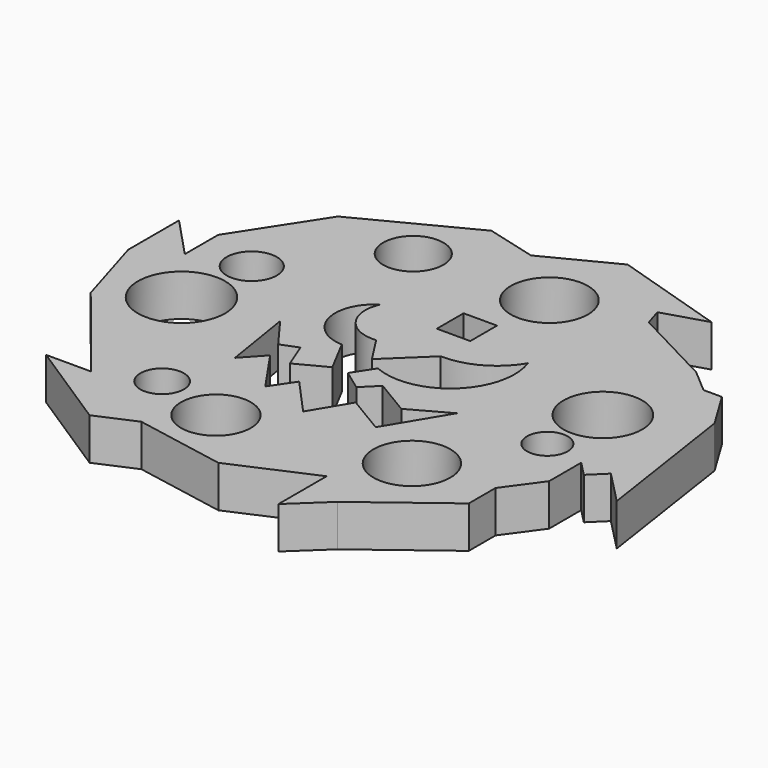
from build123d import *

# Parameters (mm, degrees)
F0_R     = 1.655877
F0_R_2   = 2.651838
F0_R_3   = 3.310353
F0_R_4   = 2.921
F0_R_5   = 1.545023
F0_R_6   = 1.905
F0_R_7   = 2.289524
F0_R_8   = 2.989225
F0_R_9   = 2.932024
F1_DEPTH = 3.175
F2_W     = 2.54
F2_H     = 2.54
F3_DEPTH = 3.175


with BuildPart() as f1:
    # F0 (on Top) → F1 (new body)
    with BuildSketch(Plane.XY):
        Polygon((32.829497, -3.6195), (24.320502, -0.9525), (19.1135, -3.6195), (15.303499, -2.6035), (7.044703, -6.867298), (2.976148, -13.144501), (2.976148, -16.312003), (0, -13.144501), (0, -17.970501), (1.7145, -23.669264), (8.064501, -31.559501), (4.6355, -31.559501), (11.493499, -36.004499), (14.414499, -34.734499), (21.272501, -36.004499), (27.368499, -33.3375), (27.368499, -37.9095), (29.936647, -35.496499), (36.131501, -30.7975), (36.131501, -28.2575), (38.068253, -25.5905), (38.068253, -22.542501), (39.166847, -23.669264), (40.322501, -22.542501), (42.799, -25.082501), (41.084498, -13.652501), (39.306503, -10.731501), (37.9095, -10.731501), (36.131501, -9.2075), (29.936647, -5.965224), (29.5275, -4.6355), align=None)
        with Locations((12.128499, -29.908501)):
            Circle(F0_R, mode=Mode.SUBTRACT)
        with Locations((17.335502, -31.305499)):
            Circle(F0_R_2, mode=Mode.SUBTRACT)
        with Locations((6.286501, -20.7645)):
            Circle(F0_R_3, mode=Mode.SUBTRACT)
        with BuildLine():
            Line((13.620393, -24.859201), (12.763499, -19.4945))
            Line((12.763499, -19.4945), (14.541501, -21.907501))
            Line((14.541501, -21.907501), (15.829229, -21.3995))
            Line((15.829229, -21.3995), (16.612777, -23.38571))
            Line((16.612777, -23.38571), (18.882671, -22.190495))
            Line((18.882671, -22.190495), (17.496092, -19.557172))
            ThreePointArc((17.496092, -19.557172), (14.764748, -17.393266), (16.065503, -14.160501))
            ThreePointArc((16.065503, -14.160501), (16.325903, -16.779071), (18.732499, -17.8435))
            Line((18.732499, -17.8435), (20.067376, -19.913881))
            Line((20.067376, -19.913881), (23.023179, -17.081501))
            ThreePointArc((23.023179, -17.081501), (25.66988, -16.439906), (27.6225, -14.5415))
            ThreePointArc((27.6225, -14.5415), (26.339514, -19.717253), (21.083658, -20.6175))
            Line((21.083658, -20.6175), (20.067376, -22.190495))
            Line((20.067376, -22.190495), (21.594148, -23.3045))
            Line((21.594148, -23.3045), (22.709592, -22.190495))
            Line((22.709592, -22.190495), (25.418346, -23.809462))
            Line((25.418346, -23.809462), (28.348263, -22.190495))
            Line((28.348263, -22.190495), (25.701909, -26.60206))
            Line((25.701909, -26.60206), (22.7965, -24.859201))
            Line((22.7965, -24.859201), (21.083658, -27.71457))
            Line((21.083658, -27.71457), (18.498735, -24.859201))
            Line((18.498735, -24.859201), (17.318298, -26.60206))
            Line((17.318298, -26.60206), (15.049499, -23.3045))
            Line((15.049499, -23.3045), (13.620393, -24.859201))
        make_face(mode=Mode.SUBTRACT)
        with Locations((30.289499, -28.8925)):
            Circle(F0_R_4, mode=Mode.SUBTRACT)
        with Locations((34.9885, -21.907501)):
            Circle(F0_R_5, mode=Mode.SUBTRACT)
        with Locations((7.048499, -15.0495)):
            Circle(F0_R_6, mode=Mode.SUBTRACT)
        with Locations((13.5255, -7.8105)):
            Circle(F0_R_7, mode=Mode.SUBTRACT)
        with Locations((35.242502, -16.9545)):
            Circle(F0_R_8, mode=Mode.SUBTRACT)
        with Locations((23.558499, -7.4295)):
            Circle(F0_R_9, mode=Mode.SUBTRACT)
    extrude(amount=F1_DEPTH)

    # F2 (on face) → F3 (cut)
    with BuildSketch(Plane.XY.offset(3.175)):
        with Locations((21.902567, -13.187881)):
            Rectangle(F2_W, F2_H)
    extrude(amount=-F3_DEPTH, mode=Mode.SUBTRACT)


solid = f1.part
